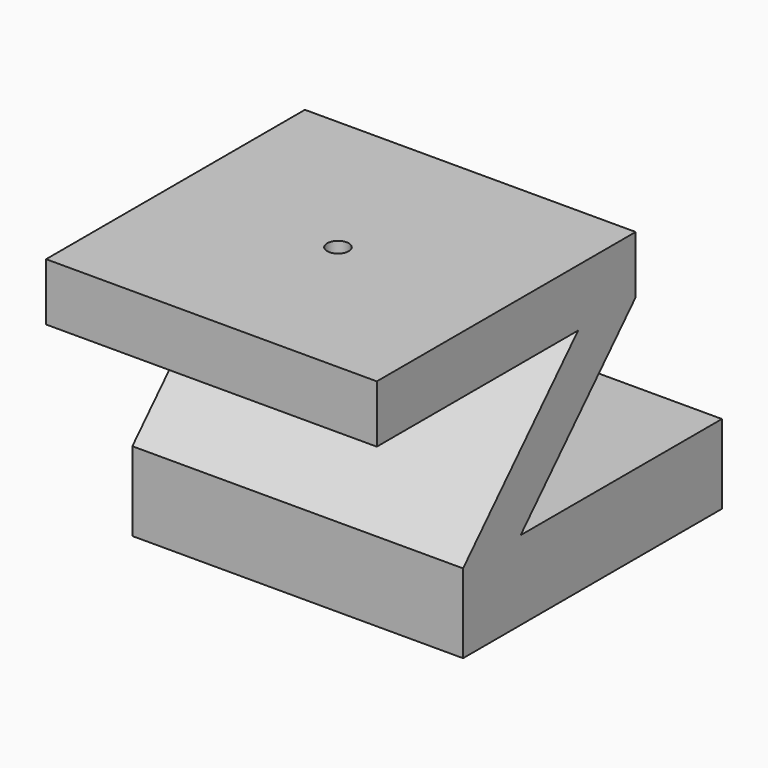
from build123d import *

# Parameters (mm, degrees)
CYLINDER001_R          = 3
CYLINDER001_DEPTH      = 20
CYLINDER_R             = 10
CYLINDER_DEPTH         = 50
PAD008_DEPTH           = 92
CUT002_PLACEMENT_ANGLE = 90


with BuildPart() as cylinder001:
    # Cylinder001 → Cylinder001 (new body)
    with BuildSketch(Plane(origin=(-31, -46, 34), x_dir=(1, 0, 0), z_dir=(0, 0, 1))):
        Circle(CYLINDER001_R)
    extrude(amount=CYLINDER001_DEPTH)


with BuildPart() as cylinder:
    # Cylinder → Cylinder (new body)
    with BuildSketch(Plane(origin=(4, -44, -38), x_dir=(1, 0, 0), z_dir=(0, 0, 1))):
        Circle(CYLINDER_R)
    extrude(amount=CYLINDER_DEPTH)


with BuildPart() as stand001:
    # Sketch009 → Pad008 (new body)
    with BuildSketch(Plane.XZ):
        Polygon((45, -27.665999), (-45, -27.665999), (-45, -5.665999), (-5, 36.334001), (-75, 36.334001), (-75, 52.334001), (15, 52.334001), (15, 36.334001), (-25, -5.665999), (45, -5.665999), align=None)
    extrude(amount=PAD008_DEPTH)

    # Cut001: cut Cylinder
    add(cylinder.part, mode=Mode.SUBTRACT)

    # Cut002: cut Cylinder001
    add(cylinder001.part, mode=Mode.SUBTRACT)


with BuildPart() as stand001_1:
    # Cut002 placement: moved
    add(stand001.part.moved(Location((-44, -9, -104))).rotate(Axis((-44, -9, -104), (0, 0, 1)), CUT002_PLACEMENT_ANGLE))


solid = stand001_1.part
